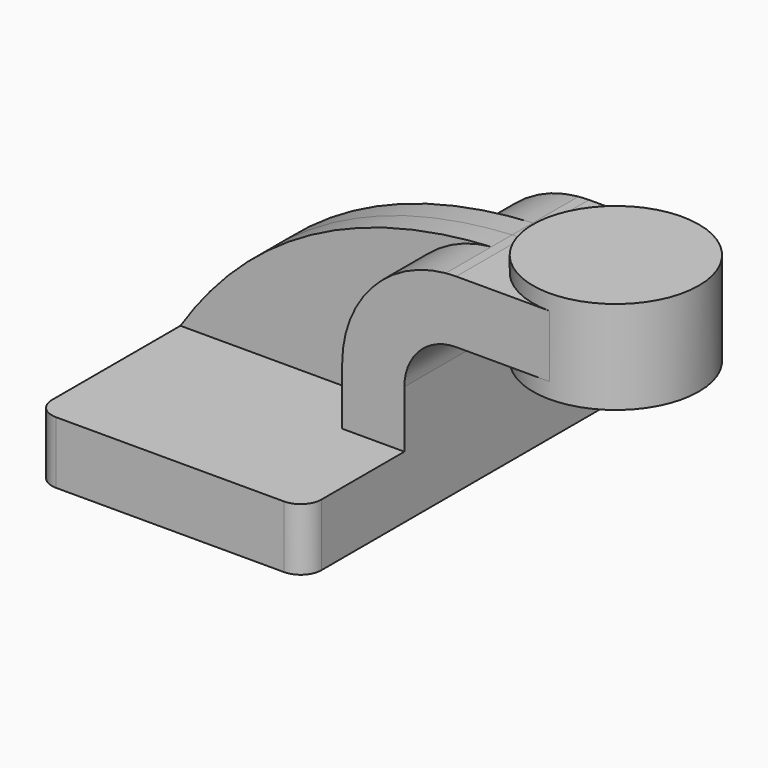
from build123d import *

# Parameters (mm, degrees)
F1_DEPTH = 63.5
F2_DEPTH = 25.4
F3_DEPTH = 7.9375
F0_W     = 25.4
F0_H     = 19.05
F4_DEPTH = 25.4
F6_R     = 6.35
F7_R     = 6.35


with BuildPart() as f1:
    # F0 (on Front) → F1 (new body, symmetric)
    with BuildSketch(Plane.XZ):
        Polygon((-41.275, 9.525), (-41.275, -9.525), (41.275, -9.525), (41.275, 9.525), (22.225, 9.525), align=None)
    extrude(amount=F1_DEPTH, both=True)

    # F0 (on Front) → F2 (join, symmetric)
    with BuildSketch(Plane.XZ):
        with BuildLine():
            Line((22.225, 9.525), (41.275, 9.525))
            Line((41.275, 9.525), (41.275, 27.0002))
            ThreePointArc((41.275, 27.0002), (45.9246798487, 38.2255201513), (57.15, 42.8752))
            Line((57.15, 42.8752), (60.325, 42.8752))
            Line((60.325, 42.8752), (60.325, 61.9252))
            Line((60.325, 61.9252), (57.15, 61.9252))
            add(Edge.make_bspline(
                [(53.9637073278, 61.7795496777), (55.021415818, 61.8378973507), (56.0835450938, 61.8864198253), (57.15, 61.9252)],
                knots=[108.6046989527, 108.6046989527, 108.6046989527, 108.6046989527, 111.5045361635, 111.5045361635, 111.5045361635, 111.5045361635], degree=3))
            ThreePointArc((53.9637073278, 61.7795496777), (31.3523557609, 50.5424423892), (22.225, 27.0002))
            Line((22.225, 27.0002), (22.225, 9.525))
        make_face()
    extrude(amount=F2_DEPTH, both=True)

    # F0 (on Front) → F3 (join, symmetric)
    with BuildSketch(Plane.XZ):
        with BuildLine():
            add(Edge.make_bspline(
                [(-41.275, 9.525), (-19.0620616146, 43.6277397004), (14.35041051, 59.5943127151), (53.9637073278, 61.7795496777)],
                knots=[0, 0, 0, 0, 108.6046989527, 108.6046989527, 108.6046989527, 108.6046989527], degree=3))
            Line((-41.275, 9.525), (22.225, 9.525))
            Line((22.225, 9.525), (22.225, 27.0002))
            ThreePointArc((22.225, 27.0002), (31.3523557609, 50.5424423892), (53.9637073278, 61.7795496777))
        make_face()
    extrude(amount=F3_DEPTH, both=True)

    # F0 (on Front) → F4 (join, symmetric)
    with BuildSketch(Plane.XZ):
        with Locations((73.025, 52.4002)):
            Rectangle(F0_W, F0_H)
    extrude(amount=F4_DEPTH, both=True)

    # F0 (on Front) → F5 (revolve)
    with BuildSketch(Plane.XZ):
        Polygon((85.725, 66.675), (85.725, 61.9252), (85.725, 42.8752), (85.725, 38.1), (111.125, 38.1), (111.125, 66.675), align=None)
    revolve(axis=Axis((85.725, 0, 52.3875), (0, 0, 1)))

    # F6
    f6_edges = [f1.edges().sort_by_distance(p)[0] for p in [
        (-41.275, -63.5, 0),
        (41.275, -63.5, 0),
        (41.275, 63.5, 0),
    ]]
    fillet(f6_edges, radius=F6_R)

    # F7
    f7_edges = [f1.edges().sort_by_distance(p)[0] for p in [
        (-41.275, 63.5, 0),
    ]]
    fillet(f7_edges, radius=F7_R)


solid = f1.part
